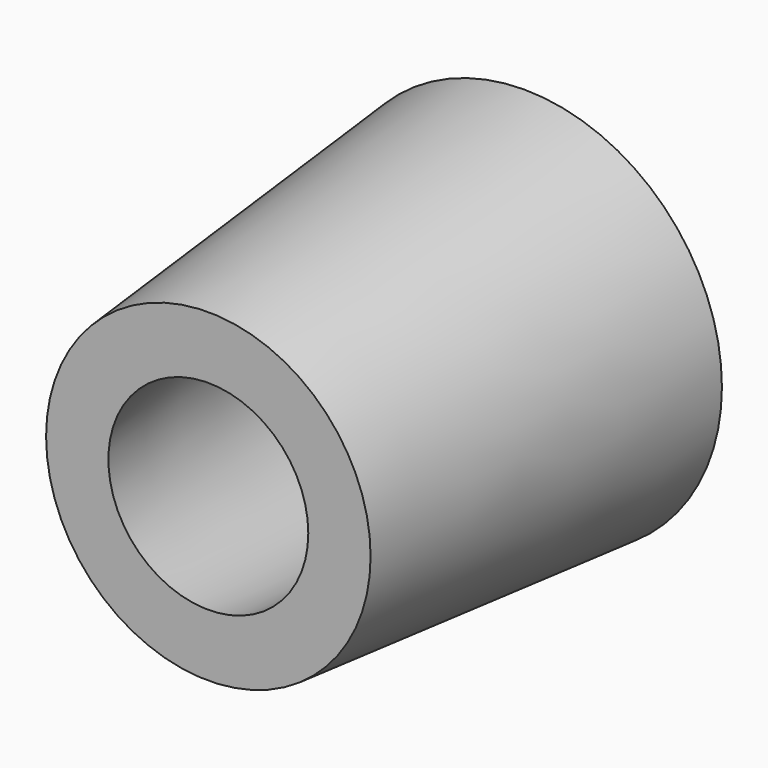
from build123d import *

# Parameters (mm, degrees)
F0_R = 44.45
F2_R = 36.5125
F3_R = 29.21
F4_R = 22.4917


with BuildPart() as f5:
    # F0 (on Front) → F5 section 0
    with BuildSketch(Plane.XZ):
        Circle(F0_R)
    # F2 (on offset) → F5 section 1
    with BuildSketch(Plane.XZ.offset(88.9)):
        Circle(F2_R)
    loft()

    # F3 (on Front) → F6 section 0
    with BuildSketch(Plane.XZ):
        Circle(F3_R)
    # F4 (on offset) → F6 section 1
    with BuildSketch(Plane.XZ.offset(88.9)):
        Circle(F4_R)
    loft(mode=Mode.SUBTRACT)


solid = f5.part
